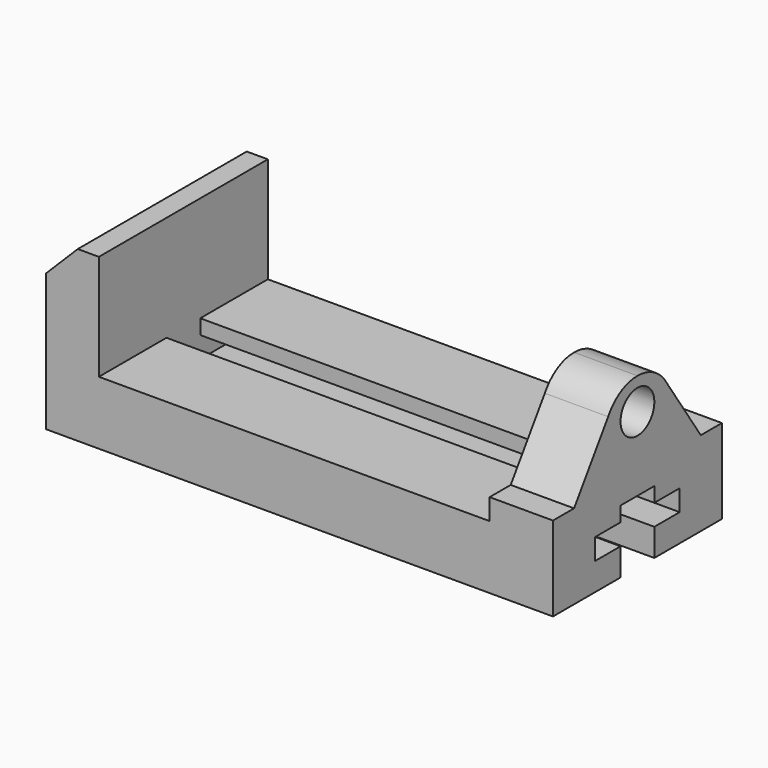
from build123d import *

# Parameters (mm, degrees)
F1_DEPTH = 127
F3_DEPTH = 38.1
F5_DEPTH = 273.05
F6_R     = 12.7
F7_DEPTH = 38.1


with BuildPart() as f1:
    # F0 (on Front) → F1 (new body)
    with BuildSketch(Plane.XZ):
        Polygon((0, 82.55), (0, 0), (304.8, 0), (304.8, 101.6), (266.7, 101.6), (266.7, 38.1), (31.75, 38.1), (31.75, 101.6), (19.05, 101.6), align=None)
    extrude(amount=F1_DEPTH)

    # F2 (on face) → F3 (cut)
    with BuildSketch(Plane.YZ.offset(304.8)):
        with BuildLine():
            Line((-127, 101.6), (-127, 50.8))
            Line((-127, 50.8), (-111.125, 50.8))
            Line((-111.125, 50.8), (-85.497045, 88.9))
            ThreePointArc((-85.497045, 88.9), (-76.2, 98.197045), (-63.5, 101.6))
            Line((-63.5, 101.6), (-127, 101.6))
        make_face()
        with BuildLine():
            Line((0, 101.6), (-63.5, 101.6))
            ThreePointArc((-63.5, 101.6), (-50.8, 98.197045), (-41.502955, 88.9))
            Line((-41.502955, 88.9), (-15.875, 50.8))
            Line((-15.875, 50.8), (0, 50.8))
            Line((0, 50.8), (0, 101.6))
        make_face()
    extrude(amount=-F3_DEPTH, mode=Mode.SUBTRACT)

    # F4 (on face) → F5 (cut)
    with BuildSketch(Plane.YZ.offset(304.8)):
        Polygon((-76.2, 16.51), (-76.2, 0), (-50.8, 0), (-50.8, 16.51), (-31.75, 16.51), (-31.75, 29.21), (-50.8, 29.21), (-50.8, 38.1), (-76.2, 38.1), (-76.2, 29.21), (-95.25, 29.21), (-95.25, 16.51), align=None)
    extrude(amount=-F5_DEPTH, mode=Mode.SUBTRACT)

    # F6 (on face) → F7 (cut)
    with BuildSketch(Plane.YZ.offset(304.8)):
        with Locations((-63.5, 82.55)):
            Circle(F6_R)
    extrude(amount=-F7_DEPTH, mode=Mode.SUBTRACT)


solid = f1.part
